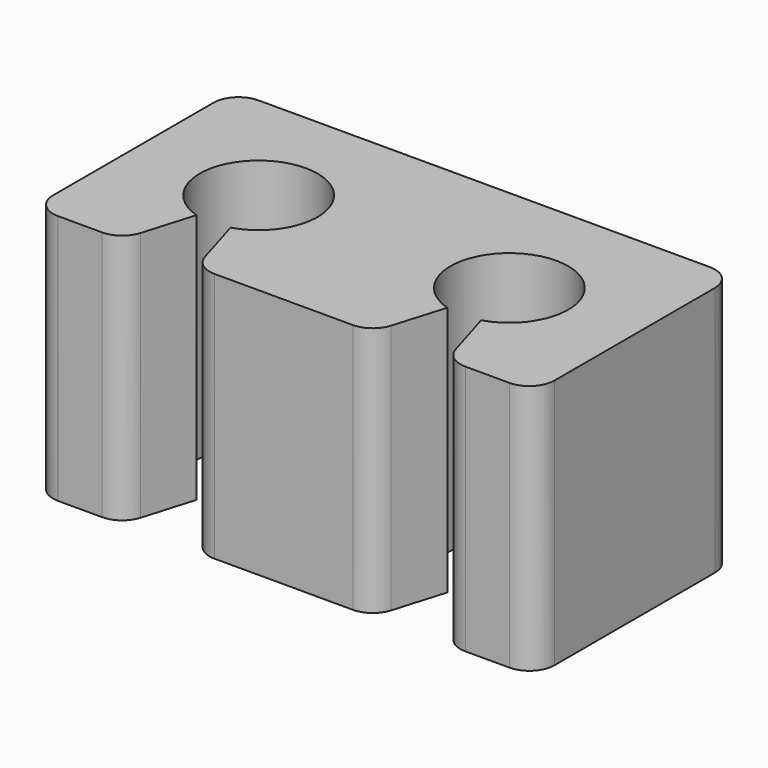
from build123d import *

# Parameters (mm, degrees)
SKETCH_W        = 20
SKETCH_H        = 10
SKETCH_R        = 2.35
PAD_DEPTH       = 10
POCKET_DEPTH    = 10
POCKET001_DEPTH = 10
FILLET_R        = 1
FILLET001_R     = 1


with BuildPart() as part:
    # Sketch → Pad (new body)
    with BuildSketch(Plane.XY):
        Rectangle(SKETCH_W, SKETCH_H)
        with Locations((-5, 0)):
            Circle(SKETCH_R, mode=Mode.SUBTRACT)
        with Locations((5, 0)):
            Circle(SKETCH_R, mode=Mode.SUBTRACT)
    extrude(amount=PAD_DEPTH)

    # Sketch001 → Pocket (cut)
    with BuildSketch(Plane.XY):
        Polygon((-5, 0), (-6.5, -5), (-3.5, -5), align=None)
    extrude(amount=POCKET_DEPTH, mode=Mode.SUBTRACT)

    # MirroredSketch → Pocket001 (cut)
    with BuildSketch(Plane.XY):
        Polygon((5, 0), (6.5, -5), (3.5, -5), align=None)
    extrude(amount=POCKET001_DEPTH, mode=Mode.SUBTRACT)

    # Fillet
    fillet_edges = [part.edges().sort_by_distance(p)[0] for p in [
        (-6.5, -5, 5),
    ]]
    fillet(fillet_edges, radius=FILLET_R)

    # Fillet001
    fillet001_edges = [part.edges().sort_by_distance(p)[0] for p in [
        (-10, -5, 5),
        (-3.5, -5, 5),
        (3.5, -5, 5),
        (6.5, -5, 5),
        (10, -5, 5),
        (10, 5, 5),
        (-10, 5, 5),
    ]]
    fillet(fillet001_edges, radius=FILLET001_R)


solid = part.part
